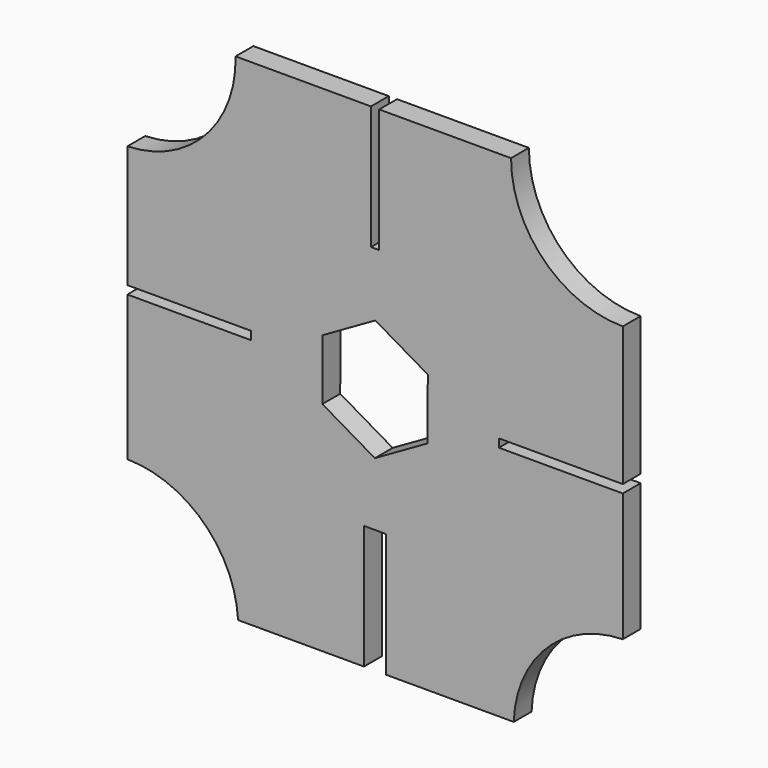
from build123d import *

# Parameters (mm, degrees)
F1_DEPTH = 2.7


with BuildPart() as f1:
    # F0 (on Front) → F1 (new body)
    with BuildSketch(Plane.XZ):
        with BuildLine():
            Line((-0.5, 30), (-16.896734, 30))
            ThreePointArc((-16.896734, 30), (-20.595587, 20.375812), (-30, 16.149286))
            Line((-30, 16.149286), (-30, 1.35))
            Line((-30, 1.35), (-15, 1.35))
            Line((-15, 1.35), (-15, 0.35))
            Line((-15, 0.35), (-30, 0.35))
            Line((-30, 0.35), (-30, -17.215762))
            ThreePointArc((-30, -17.215762), (-20.765595, -20.954259), (-16.591249, -30))
            Line((-16.591249, -30), (-1.35, -30))
            Line((-1.35, -30), (-1.35, -15))
            Line((-1.35, -15), (1.35, -15))
            Line((1.35, -15), (1.35, -30))
            Line((1.35, -30), (16.794205, -30))
            ThreePointArc((16.794205, -30), (20.789125, -20.819983), (30, -16.896734))
            Line((30, -16.896734), (30, -1.35))
            Line((30, -1.35), (15, -1.35))
            Line((15, -1.35), (15, -0.35))
            Line((15, -0.35), (30, -0.35))
            Line((30, -0.35), (30, 16.46498))
            ThreePointArc((30, 16.46498), (20.429295, 20.429295), (16.46498, 30))
            Line((16.46498, 30), (0.5, 30))
            Line((0.5, 30), (0.5, 15))
            Line((0.5, 15), (-0.5, 15))
            Line((-0.5, 15), (-0.5, 30))
        make_face()
        Polygon((-6.38286, -3.648185), (-6.350851, 3.703626), (0.032009, 7.351811), (6.38286, 3.648185), (6.350851, -3.703626), (-0.032009, -7.351811), align=None, mode=Mode.SUBTRACT)
    extrude(amount=F1_DEPTH)


solid = f1.part
